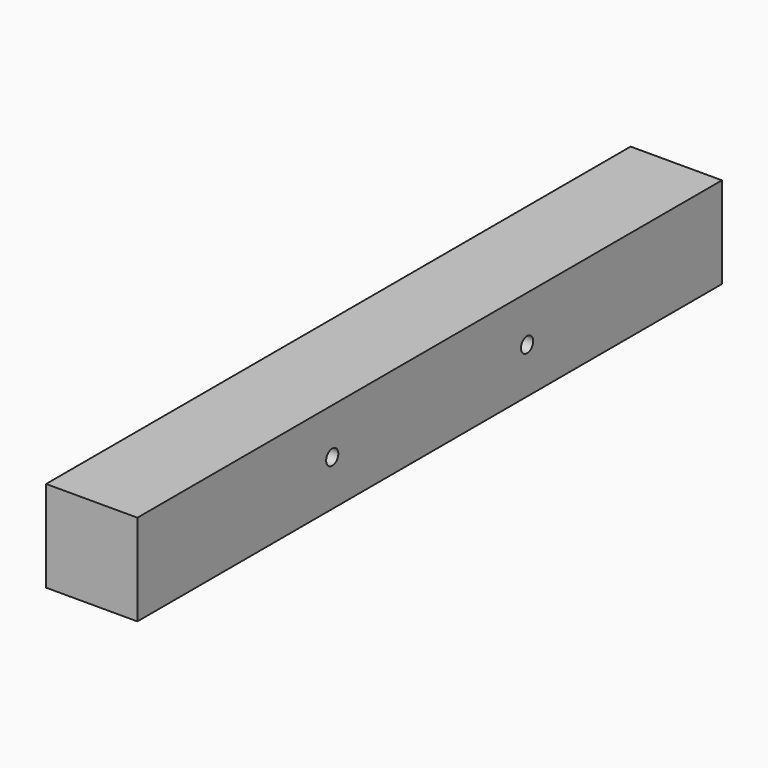
from build123d import *

# Parameters (mm, degrees)
F0_W     = 19.05
F0_H     = 19.05
F1_DEPTH = 152.4
F2_R     = 1.5875
F3_DEPTH = 25.4


with BuildPart() as f1:
    # F0 (on Front) → F1 (new body)
    with BuildSketch(Plane.XZ):
        with Locations((9.525, 9.525)):
            Rectangle(F0_W, F0_H)
    extrude(amount=F1_DEPTH)

    # F2 (on face) → F3 (cut)
    with BuildSketch(Plane.YZ.offset(19.05)):
        with Locations((-101.6, 9.525)):
            Circle(F2_R)
        with Locations((-50.8, 9.525)):
            Circle(F2_R)
    extrude(amount=-F3_DEPTH, mode=Mode.SUBTRACT)


solid = f1.part
